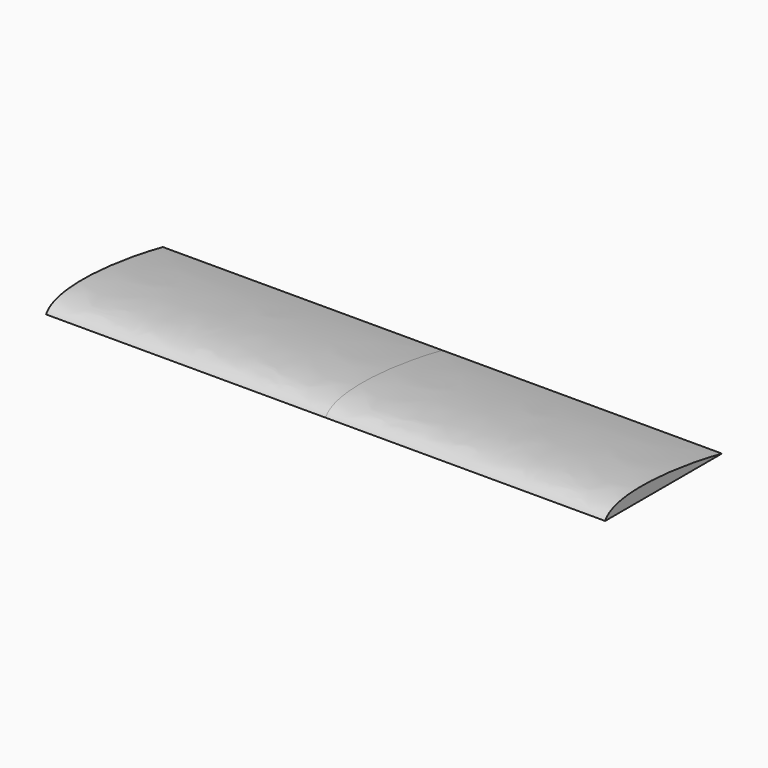
from build123d import *

# Parameters (mm, degrees)
F1_DEPTH = 502.92


with BuildPart() as f1:
    # F0 (on Right) → F1 (new body, symmetric)
    with BuildSketch(Plane.YZ):
        with BuildLine():
            add(Edge.make_bspline(
                [(-130.392238, 0), (-108.735397, 38.952235), (46.471972, 18.197764), (132.196978, 0)],
                knots=[0, 0, 0, 0, 262.589216, 262.589216, 262.589216, 262.589216], degree=3))
            Line((-130.392238, 0), (132.196978, 0))
        make_face()
    extrude(amount=F1_DEPTH, both=True)


solid = f1.part
